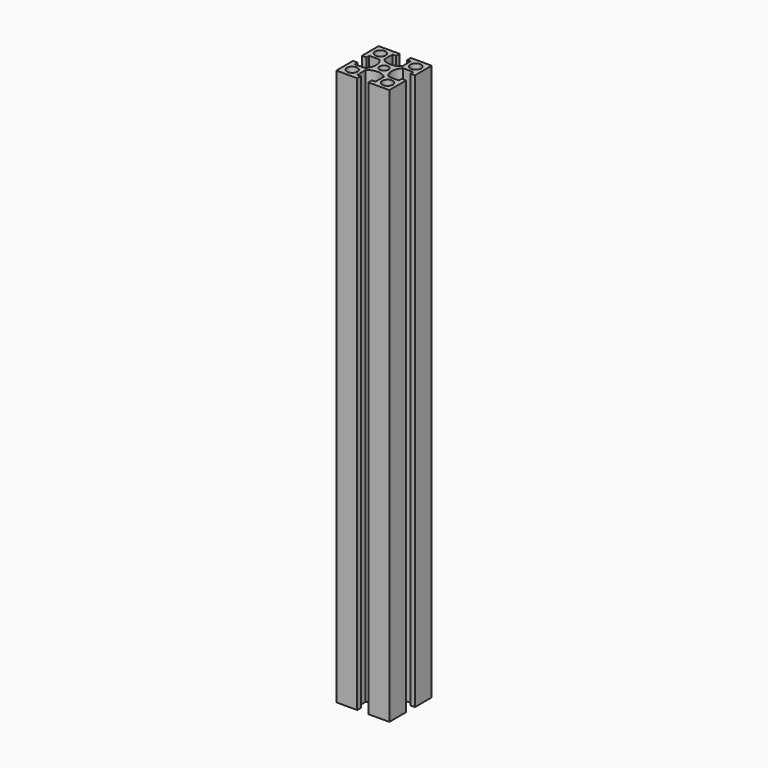
from build123d import *

# Parameters (mm, degrees)
F0_R     = 3
F0_R_2   = 2.5
F1_DEPTH = 315


with BuildPart() as f1:
    # F0 (on Top) → F1 (new body)
    with BuildSketch(Plane.XY):
        with BuildLine():
            Line((-15, 15), (-15, 3.15))
            Line((-15, 3.15), (-12.5, 3.15))
            Line((-12.5, 3.15), (-12.5, 5.15))
            Line((-12.5, 5.15), (-6.547707, 5.15))
            ThreePointArc((-6.547707, 5.15), (-4.5, 0), (-6.547707, -5.15))
            Line((-6.547707, -5.15), (-12.5, -5.15))
            Line((-12.5, -5.15), (-12.5, -3.15))
            Line((-12.5, -3.15), (-15, -3.15))
            Line((-15, -3.15), (-15, -15))
            Line((-15, -15), (-3.15, -15))
            Line((-3.15, -15), (-3.15, -12.5))
            Line((-3.15, -12.5), (-5.15, -12.5))
            Line((-5.15, -12.5), (-5.15, -6.547707))
            ThreePointArc((-5.15, -6.547707), (0, -4.5), (5.15, -6.547707))
            Line((5.15, -6.547707), (5.15, -12.5))
            Line((5.15, -12.5), (3.15, -12.5))
            Line((3.15, -12.5), (3.15, -15))
            Line((3.15, -15), (15, -15))
            Line((15, -15), (15, -3.15))
            Line((15, -3.15), (12.5, -3.15))
            Line((12.5, -3.15), (12.5, -5.15))
            Line((12.5, -5.15), (6.547707, -5.15))
            ThreePointArc((6.547707, -5.15), (4.5, 0), (6.547707, 5.15))
            Line((6.547707, 5.15), (12.5, 5.15))
            Line((12.5, 5.15), (12.5, 3.15))
            Line((12.5, 3.15), (15, 3.15))
            Line((15, 3.15), (15, 15))
            Line((15, 15), (3.15, 15))
            Line((3.15, 15), (3.15, 12.5))
            Line((3.15, 12.5), (5.15, 12.5))
            Line((5.15, 12.5), (5.15, 6.547707))
            ThreePointArc((5.15, 6.547707), (0, 4.5), (-5.15, 6.547707))
            Line((-5.15, 6.547707), (-5.15, 12.5))
            Line((-5.15, 12.5), (-3.15, 12.5))
            Line((-3.15, 12.5), (-3.15, 15))
            Line((-3.15, 15), (-15, 15))
        make_face()
        with Locations((-10, -10)):
            Circle(F0_R, mode=Mode.SUBTRACT)
        with Locations((10, -10)):
            Circle(F0_R, mode=Mode.SUBTRACT)
        with Locations((-10, 10)):
            Circle(F0_R, mode=Mode.SUBTRACT)
        Circle(F0_R_2, mode=Mode.SUBTRACT)
        with Locations((10, 10)):
            Circle(F0_R, mode=Mode.SUBTRACT)
    extrude(amount=F1_DEPTH)


solid = f1.part
